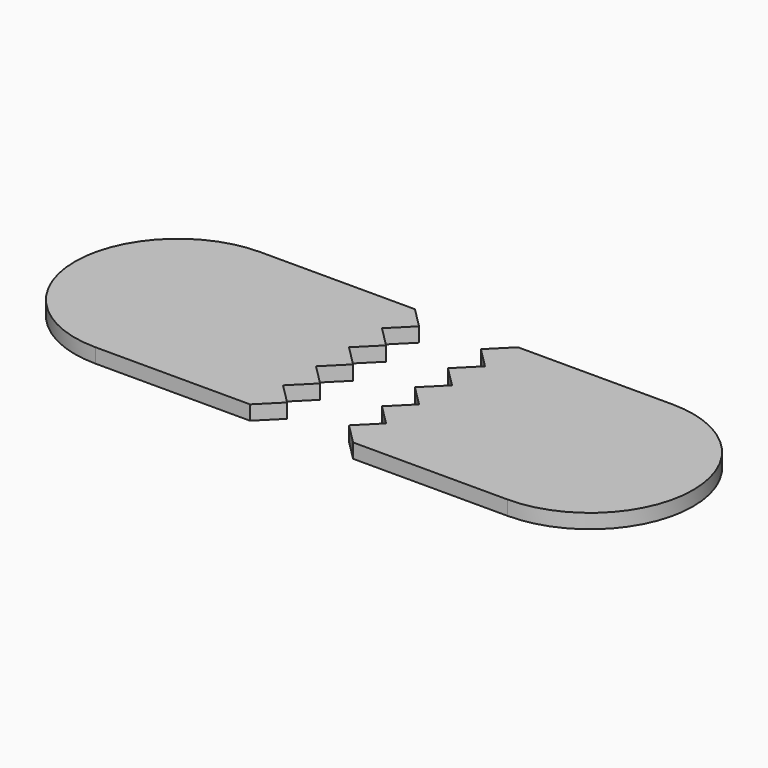
from build123d import *

# Parameters (mm, degrees)
F1_DEPTH = 0.035


with BuildPart() as f1:
    # F0 (on Top) → F1 (new body)
    with BuildSketch(Plane.XY):
        with BuildLine():
            Line((-0.125, 0.25), (-0.5, 0.25))
            ThreePointArc((-0.5, 0.25), (-0.75, 0), (-0.5, -0.25))
            Line((-0.5, -0.25), (-0.125, -0.25))
            Line((-0.125, -0.25), (-0.075, -0.2))
            Line((-0.075, -0.2), (-0.125, -0.15))
            Line((-0.125, -0.15), (-0.075, -0.1))
            Line((-0.075, -0.1), (-0.125, -0.05))
            Line((-0.125, -0.05), (-0.075, 0))
            Line((-0.075, 0), (-0.125, 0.05))
            Line((-0.125, 0.05), (-0.075, 0.1))
            Line((-0.075, 0.1), (-0.125, 0.15))
            Line((-0.125, 0.15), (-0.075, 0.2))
            Line((-0.075, 0.2), (-0.125, 0.25))
        make_face()
        with BuildLine():
            Line((0.075, 0.1), (0.125, 0.05))
            Line((0.125, 0.05), (0.075, 0))
            Line((0.075, 0), (0.125, -0.05))
            Line((0.125, -0.05), (0.075, -0.1))
            Line((0.075, -0.1), (0.125, -0.15))
            Line((0.125, -0.15), (0.075, -0.2))
            Line((0.075, -0.2), (0.125, -0.25))
            Line((0.125, -0.25), (0.5, -0.25))
            ThreePointArc((0.5, -0.25), (0.75, 0), (0.5, 0.25))
            Line((0.5, 0.25), (0.125, 0.25))
            Line((0.125, 0.25), (0.075, 0.2))
            Line((0.075, 0.2), (0.125, 0.15))
            Line((0.125, 0.15), (0.075, 0.1))
        make_face()
    extrude(amount=F1_DEPTH)


solid = f1.part
